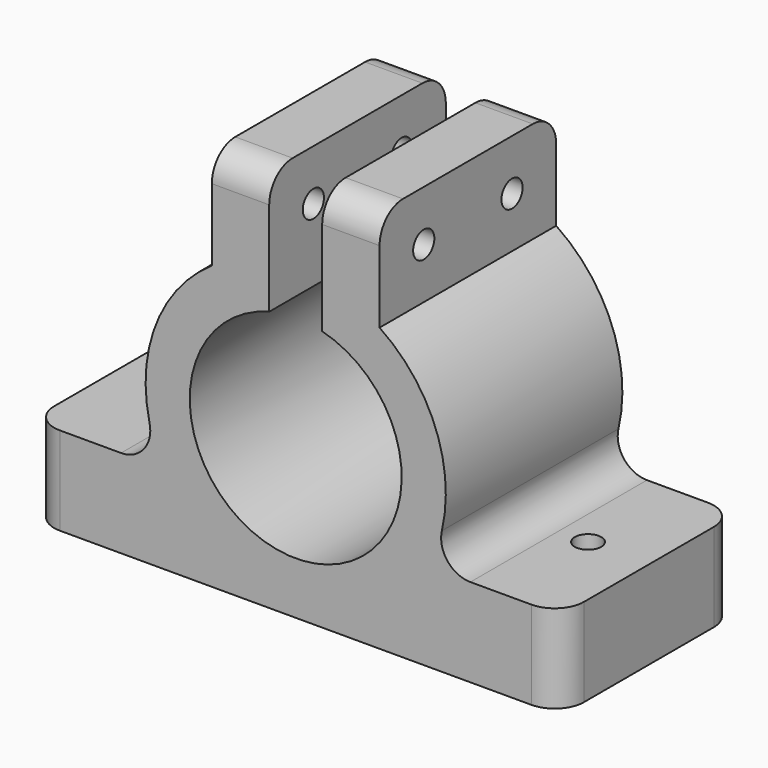
from build123d import *

# Parameters (mm, degrees)
F1_DEPTH = 25
F2_R     = 1.5
F3_DEPTH = 25
F4_R     = 1.5
F5_DEPTH = 25
F6_R     = 3.313414


with BuildPart() as f1:
    # F0 (on Front) → F1 (new body)
    with BuildSketch(Plane.XZ):
        with BuildLine():
            Line((-30, -29.771222), (30, -29.771222))
            Line((30, -29.771222), (30, -19.771222))
            Line((30, -19.771222), (15.039818, -19.771222))
            ThreePointArc((15.039818, -19.771222), (16.48651, -7.699644), (9.500786, 2.251013))
            Line((9.500786, 2.251013), (9.500786, 13.742813))
            Line((9.500786, 13.742813), (3, 13.742813))
            Line((3, 13.742813), (3, 4.886871))
            Line((3, 4.886871), (3, -0.22738))
            ThreePointArc((3, -0.22738), (0, -23.84633), (-3, -0.22738))
            Line((-3, -0.22738), (-3, 4.886871))
            Line((-3, 4.886871), (-3, 13.742813))
            Line((-3, 13.742813), (-9.500786, 13.742813))
            Line((-9.500786, 13.742813), (-9.500786, 2.251013))
            ThreePointArc((-9.500786, 2.251013), (-16.48651, -7.699644), (-15.039818, -19.771222))
            Line((-15.039818, -19.771222), (-30, -19.771222))
            Line((-30, -19.771222), (-30, -29.771222))
        make_face()
    extrude(amount=F1_DEPTH)

    # F2 (on face) → F3 (cut)
    with BuildSketch(Plane.XY.offset(-19.771222)):
        with Locations((-23.107162, -12.5)):
            Circle(F2_R)
        with Locations((23.107162, -12.5)):
            Circle(F2_R)
    extrude(amount=-F3_DEPTH, mode=Mode.SUBTRACT)

    # F4 (on face) → F5 (cut)
    with BuildSketch(Plane.YZ.offset(9.500786)):
        with Locations((-18.75, 7.996913)):
            Circle(F4_R)
        with Locations((-6.25, 7.996913)):
            Circle(F4_R)
    extrude(amount=-F5_DEPTH, mode=Mode.SUBTRACT)

    # F6
    f6_edges = [f1.edges().sort_by_distance(p)[0] for p in [
        (-6.250393, -25, 13.742813),
        (6.250393, -25, 13.742813),
        (-6.250393, 0, 13.742813),
        (6.250393, 0, 13.742813),
        (30, -25, -24.771222),
        (30, 0, -24.771222),
        (-30, 0, -24.771222),
        (-30, -25, -24.771222),
        (15.039818, -12.5, -19.771222),
        (-15.039818, -12.5, -19.771222),
    ]]
    fillet(f6_edges, radius=F6_R)


solid = f1.part
